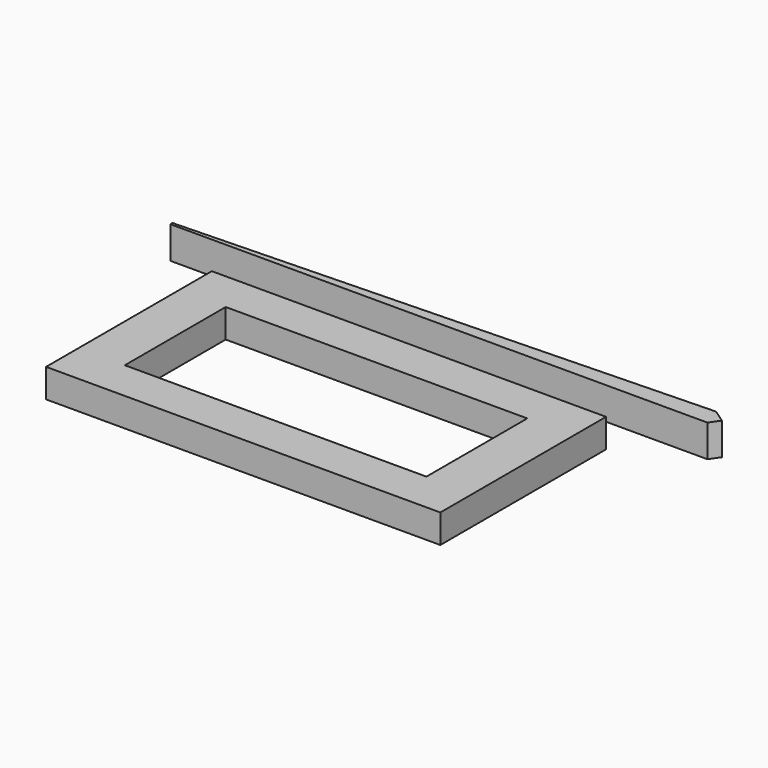
from build123d import *

# Parameters (mm, degrees)
F0_W     = 27.94
F0_H     = 14.680338
F0_W_2   = 21.372792
F0_H_2   = 8.93609
F1_DEPTH = 2.032
F3_DEPTH = 2.286


with BuildPart() as f1:
    # F0 (on Top) → F1 (new body)
    with BuildSketch(Plane.XY):
        Rectangle(F0_W, F0_H)
        Rectangle(F0_W_2, F0_H_2, mode=Mode.SUBTRACT)
    extrude(amount=F1_DEPTH)


with BuildPart() as f3:
    # F2 (on Top) → F3 (new body)
    with BuildSketch(Plane.XY):
        Polygon((18.638844, 11.252255), (-18.972345, 10.112522), (-18.972345, 9.922187), (19.087898, 9.922187), (19.564876, 10.611155), align=None)
    extrude(amount=F3_DEPTH)


solid = Compound([f1.part, f3.part])
